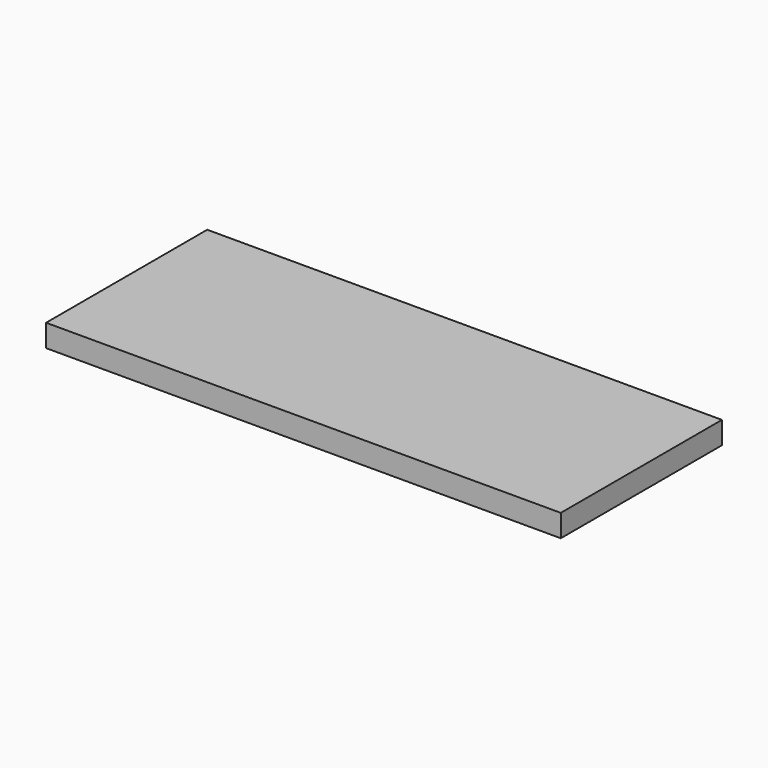
from build123d import *

# Parameters (mm, degrees)
F0_W     = 146.05
F0_H     = 57.15
F1_DEPTH = 6.35
F2_W     = 19.05
F2_H     = 6.35
F3_DEPTH = 5.715


with BuildPart() as f1:
    # F0 (on Top) → F1 (new body)
    with BuildSketch(Plane.XY):
        with Locations((73.025, -28.575)):
            Rectangle(F0_W, F0_H)
    extrude(amount=F1_DEPTH)

    # F2 (on face) → F3 (cut)
    with BuildSketch(Plane(origin=(0, 0, 0), x_dir=(1, 0, 0), z_dir=(0, 0, -1))):
        with Locations((28.575, 47.625)):
            Rectangle(F2_W, F2_H)
        with Locations((72.77173, 47.625)):
            Rectangle(F2_W, F2_H)
        with Locations((116.96846, 47.625)):
            Rectangle(F2_W, F2_H)
        with Locations((28.575, 9.525)):
            Rectangle(F2_W, F2_H)
        with Locations((72.77173, 9.525)):
            Rectangle(F2_W, F2_H)
        with Locations((116.96846, 9.525)):
            Rectangle(F2_W, F2_H)
    extrude(amount=-F3_DEPTH, mode=Mode.SUBTRACT)


solid = f1.part
